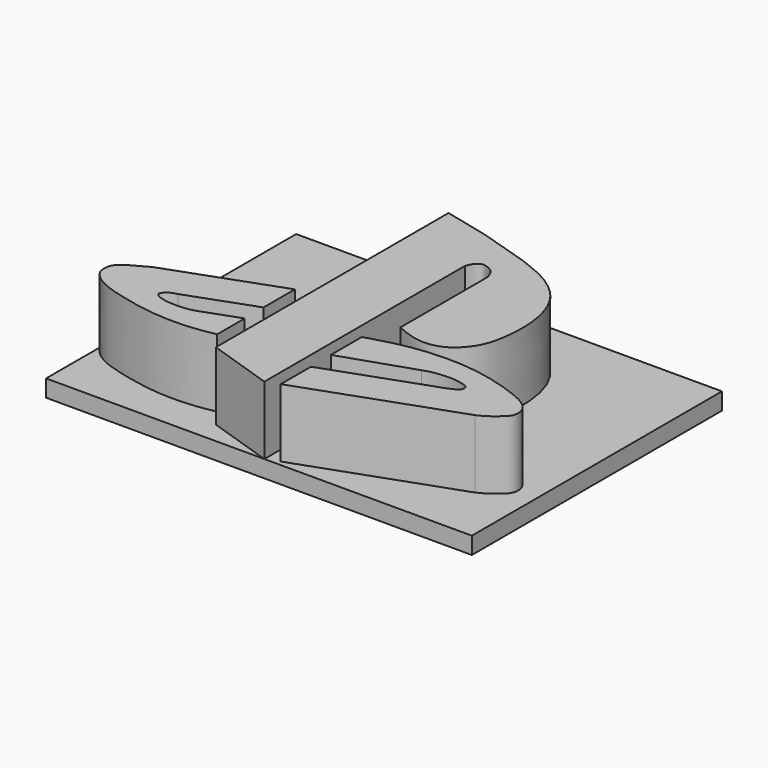
from build123d import *

# Parameters (mm, degrees)
F1_DEPTH = 10
F2_W     = 50
F2_H     = 36.7095391211
F3_DEPTH = 2


with BuildPart() as f1:
    # F0 (on Top) → F1 (new body)
    with BuildSketch(Plane.XY):
        with BuildLine():
            Line((23.145198822, 35.4425683618), (17.8945399821, 36.7095391211))
            Line((17.8945399821, 36.7095391211), (17.8945399821, 2.5568525307))
            Line((17.8945399821, 2.5568525307), (25.6323553622, 0))
            Line((25.6323553622, 0), (25.6323553622, 29.4181257486))
            add(Edge.make_bspline(
                [(28.6437571049, 28.5532325506), (28.6545749541, 28.6743432494), (28.6802923701, 28.9622613155), (28.4254929956, 29.684596938), (27.9535761776, 30.3658785351), (27.0770871185, 30.6983034331), (26.5763598339, 30.729052907), (25.9619146503, 30.2846915439), (25.7479217692, 29.7220039856), (25.6323553622, 29.4181257486)],
                knots=[0, 0, 0, 0, 0.1073061872, 0.2551004181, 0.4121775408, 0.5742298777, 0.6925455754, 0.8339598822, 1, 1, 1, 1], degree=3))
            Line((28.6437571049, 28.5532325506), (28.6437571049, 16.2038393319))
            add(Edge.make_bspline(
                [(32.9832807183, 31.8500101566), (33.6669369624, 31.3742361451), (35.0950020592, 30.380408815), (36.8042025352, 27.797369232), (37.5853778066, 24.2838849893), (37.3824597353, 20.5887723376), (36.7441801064, 18.1728832573), (35.5780420262, 16.6373012006), (34.2378087054, 15.5196978294), (31.6633513682, 14.9444209405), (29.6979708499, 15.7641457628), (28.6437571049, 16.2038393319)],
                knots=[0, 0, 0, 0, 0.1077996083, 0.2251787494, 0.3541045173, 0.4848281988, 0.5911353252, 0.682949788, 0.7710502991, 0.8771932868, 1, 1, 1, 1], degree=3))
            Line((32.9832807183, 31.8500101566), (31.6015258431, 32.5685217977))
            Line((31.6015258431, 32.5685217977), (29.1696414351, 33.5633829236))
            Line((29.1696414351, 33.5633829236), (23.145198822, 35.4425683618))
        make_face()
    extrude(amount=F1_DEPTH)


with BuildPart() as f1b:
    # F0 (on Top) → F1, piece 2 (new body)
    with BuildSketch(Plane.XY):
        with BuildLine():
            add(Edge.make_bspline(
                [(27.075374499, 12.5115131959), (27.7607210409, 12.7177811661), (29.2007831656, 13.151195028), (31.814548219, 13.7620091087), (35.2972385999, 14.1435174048), (39.5126088992, 13.9086416183), (43.1436391346, 12.9930922239), (46.2636844791, 11.841790685), (47.3605314433, 10.8579563952), (47.7728953089, 9.9877137995), (47.694450155, 8.9793241799), (46.9950417442, 8.2646854823), (45.8451619542, 7.3247204567), (45.1788950781, 7.0159654105), (44.8730587959, 6.8742376752)],
                knots=[0, 0, 0, 0, 0.0862719737, 0.181276178, 0.2907725351, 0.4106704553, 0.5256603251, 0.6309851012, 0.6996157515, 0.7549573701, 0.8107856488, 0.868574326, 0.9396717127, 1, 1, 1, 1], degree=3))
            Line((27.075374499, 12.5115131959), (27.075374499, 7.9614268616))
            Line((27.075374499, 7.9614268616), (35.4910194874, 10.7800643891))
            add(Edge.make_bspline(
                [(35.4910194874, 10.7800643891), (35.76108316, 10.8759675501), (36.3407533038, 11.0818160399), (37.5130219341, 11.2098088816), (38.7312787994, 11.2882045343), (39.958778002, 11.0717822931), (40.6707773127, 10.8539654777), (40.8025449394, 10.4556451675), (40.7683694189, 10.0426589866), (39.8457996535, 9.4793171056), (38.9843430983, 9.2013520173), (38.5109893978, 9.0486155823)],
                knots=[0, 0, 0, 0, 0.1109951805, 0.2382423065, 0.3701536376, 0.5028255104, 0.6002877907, 0.6704297133, 0.7399682067, 0.8571175634, 1, 1, 1, 1], degree=3))
            Line((38.5109893978, 9.0486155823), (27.1156392992, 4.981723614))
            Line((27.1156392992, 4.981723614), (27.1156392992, 0.5524356966))
            Line((27.1156392992, 0.5524356966), (44.8730587959, 6.8742376752))
        make_face()
    extrude(amount=F1_DEPTH)


with BuildPart() as f1c:
    # F0 (on Top) → F1, piece 3 (new body)
    with BuildSketch(Plane.XY):
        with BuildLine():
            Line((16.3645483553, 11.4645911381), (16.3645483553, 16.0549432039))
            Line((16.3645483553, 16.0549432039), (3.4390804358, 11.3840587437))
            add(Edge.make_bspline(
                [(3.4390804358, 11.3840587437), (2.6263186112, 10.9582442241), (1.2507357067, 10.2375617857), (0.2373226624, 9.4083195602), (0.0736213145, 8.4156946782), (0.1849150341, 7.4942084911), (1.1685510699, 6.4956786208), (2.8009792371, 5.5873272621), (6.0939168275, 4.7598623775), (8.3151357087, 4.3129026395), (11.3919443413, 4.0515199625), (14.3193354073, 4.2400029354), (15.738120214, 4.5132118059), (16.3829531521, 4.6373843215)],
                knots=[0, 0, 0, 0, 0.1037195533, 0.1755432403, 0.2378180455, 0.2987502174, 0.3724630954, 0.4622952283, 0.5812602957, 0.681057203, 0.7945949151, 0.9066440775, 1, 1, 1, 1], degree=3))
            Line((16.3829531521, 4.6373843215), (16.3829531521, 8.6798174307))
            Line((16.3829531521, 8.6798174307), (11.9151469093, 7.0652834826))
            add(Edge.make_bspline(
                [(8.5931615904, 8.6459526792), (8.2579462016, 8.5551378758), (7.6696602015, 8.3957625034), (7.2680640307, 7.9093930679), (7.218831063, 7.7987948634), (7.1404644239, 7.6778778475), (7.1649777774, 7.4789751791), (7.4474141974, 7.2127491104), (7.9213575778, 7.0159568673), (8.428861503, 6.8917599097), (9.3531383476, 6.7601890735), (11.0232160459, 6.8069826444), (11.6491771424, 6.9882593359), (11.9151469093, 7.0652834826)],
                knots=[0, 0, 0, 0, 0.1224552552, 0.2149027601, 0.2566005008, 0.3007075106, 0.3524393189, 0.4273373615, 0.5154115001, 0.6028146718, 0.722218825, 0.8819712683, 1, 1, 1, 1], degree=3))
            Line((8.5931615904, 8.6459526792), (16.3645483553, 11.4645911381))
        make_face()
    extrude(amount=F1_DEPTH)


with BuildPart() as f3:
    # F2 (on Top) → F3 (new body)
    with BuildSketch(Plane.XY):
        with Locations((25, 18.3547695606)):
            Rectangle(F2_W, F2_H)
    extrude(amount=F3_DEPTH)


solid = Compound([f1.part, f1b.part, f1c.part, f3.part])
